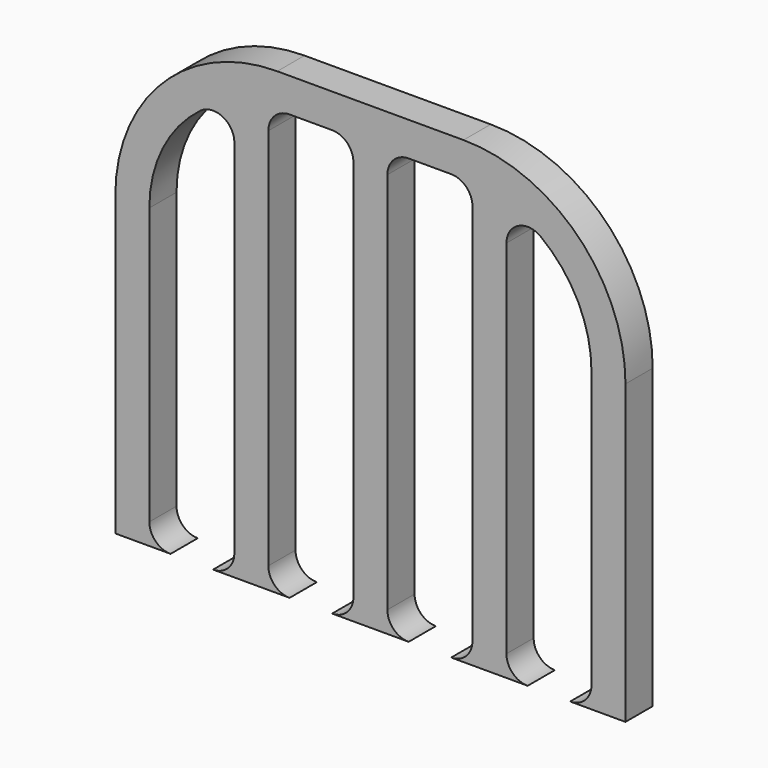
from build123d import *

# Parameters (mm, degrees)
F1_DEPTH = 4


with BuildPart() as f1:
    # F0 (on Front) → F1 (new body)
    with BuildSketch(Plane.XZ):
        with BuildLine():
            Line((-4.5, 0), (0, 0))
            Line((0, 0), (0, 54.05))
            Line((0, 54.05), (-10.95, 54.05))
            ThreePointArc((-10.95, 54.05), (-24.420384, 48.470384), (-30, 35))
            Line((-30, 35), (-30, 0))
            Line((-30, 0), (-23.5, 0))
            ThreePointArc((-23.5, 0), (-25.267767, 0.732233), (-26, 2.5))
            Line((-26, 2.5), (-26, 35))
            ThreePointArc((-26, 35), (-24.417831, 41.717144), (-20.003984, 47.021975))
            ThreePointArc((-20.003984, 47.021975), (-17.384195, 47.26215), (-16, 45.024969))
            Line((-16, 45.024969), (-16, 35))
            Line((-16, 35), (-16, 2.5))
            ThreePointArc((-16, 2.5), (-16.732233, 0.732233), (-18.5, 0))
            Line((-18.5, 0), (-9.5, 0))
            ThreePointArc((-9.5, 0), (-11.267767, 0.732233), (-12, 2.5))
            Line((-12, 2.5), (-12, 47.55))
            ThreePointArc((-12, 47.55), (-11.267767, 49.317767), (-9.5, 50.05))
            Line((-9.5, 50.05), (-4.5, 50.05))
            ThreePointArc((-4.5, 50.05), (-2.732233, 49.317767), (-2, 47.55))
            Line((-2, 47.55), (-2, 2.5))
            ThreePointArc((-2, 2.5), (-2.732233, 0.732233), (-4.5, 0))
        make_face()
        with BuildLine():
            Line((0, 54.05), (0, 0))
            Line((0, 0), (4.5, 0))
            ThreePointArc((4.5, 0), (2.732233, 0.732233), (2, 2.5))
            Line((2, 2.5), (2, 47.55))
            ThreePointArc((2, 47.55), (2.732233, 49.317767), (4.5, 50.05))
            Line((4.5, 50.05), (9.5, 50.05))
            ThreePointArc((9.5, 50.05), (11.267767, 49.317767), (12, 47.55))
            Line((12, 47.55), (12, 2.5))
            ThreePointArc((12, 2.5), (11.267767, 0.732233), (9.5, 0))
            Line((9.5, 0), (18.5, 0))
            ThreePointArc((18.5, 0), (16.732233, 0.732233), (16, 2.5))
            Line((16, 2.5), (16, 35))
            Line((16, 35), (16, 45.024969))
            ThreePointArc((16, 45.024969), (17.384195, 47.26215), (20.003984, 47.021975))
            ThreePointArc((20.003984, 47.021975), (24.417831, 41.717144), (26, 35))
            Line((26, 35), (26, 2.5))
            ThreePointArc((26, 2.5), (25.267767, 0.732233), (23.5, 0))
            Line((23.5, 0), (30, 0))
            Line((30, 0), (30, 35))
            ThreePointArc((30, 35), (24.420384, 48.470384), (10.95, 54.05))
            Line((10.95, 54.05), (0, 54.05))
        make_face()
    extrude(amount=F1_DEPTH)


solid = f1.part
